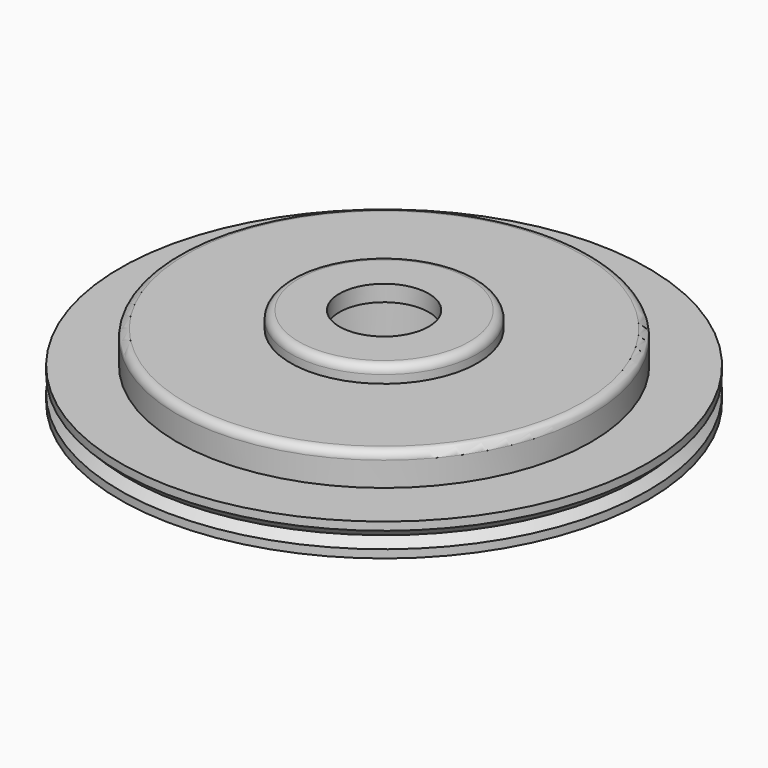
from build123d import *

# Parameters (mm, degrees)
F0_R     = 32.5
F0_R_2   = 25.5
F1_DEPTH = 2
F0_R_3   = 11.5
F2_DEPTH = 6
F0_R_4   = 9.5
F3_DEPTH = 8
F0_R_5   = 5.5
F4_DEPTH = 8
F5_DEPTH = 6
F6_R     = 1
F7_R     = 1
F8_SIZE  = 1


with BuildPart() as f1:
    # F0 (on Top) → F1 (new body)
    with BuildSketch(Plane.XY):
        Circle(F0_R)
        Circle(F0_R_2, mode=Mode.SUBTRACT)
    extrude(amount=F1_DEPTH)

    # F0 (on Top) → F2 (join)
    with BuildSketch(Plane.XY):
        Circle(F0_R_2)
        Circle(F0_R_3, mode=Mode.SUBTRACT)
    extrude(amount=F2_DEPTH)

    # F0 (on Top) → F3 (join)
    with BuildSketch(Plane.XY):
        Circle(F0_R_3)
        Circle(F0_R_4, mode=Mode.SUBTRACT)
    extrude(amount=F3_DEPTH)

    # F0 (on Top) → F4 (join)
    with BuildSketch(Plane.XY):
        Circle(F0_R_4)
        Circle(F0_R_5, mode=Mode.SUBTRACT)
    extrude(amount=F4_DEPTH)

    # F0 (on Top) → F5 (cut)
    with BuildSketch(Plane.XY):
        Circle(F0_R_4)
        Circle(F0_R_5, mode=Mode.SUBTRACT)
    extrude(amount=F5_DEPTH, mode=Mode.SUBTRACT)

    # F6
    f6_edges = [f1.edges().sort_by_distance(p)[0] for p in [
        (-11.5, 0, 8),
    ]]
    fillet(f6_edges, radius=F6_R)

    # F7
    f7_edges = [f1.edges().sort_by_distance(p)[0] for p in [
        (-25.5, 0, 6),
    ]]
    fillet(f7_edges, radius=F7_R)

    # F8
    f8_edges = [f1.edges().sort_by_distance(p)[0] for p in [
        (-32.5, 0, 0),
    ]]
    chamfer(f8_edges, length=F8_SIZE)


with BuildPart() as f9_1:
    # F9: instance of F1
    add(f1.part.mirror(Plane(origin=(0, 0, 0), x_dir=(1, 0, 0), z_dir=(0, 0, -1))))


solid = Compound([f1.part, f9_1.part])
